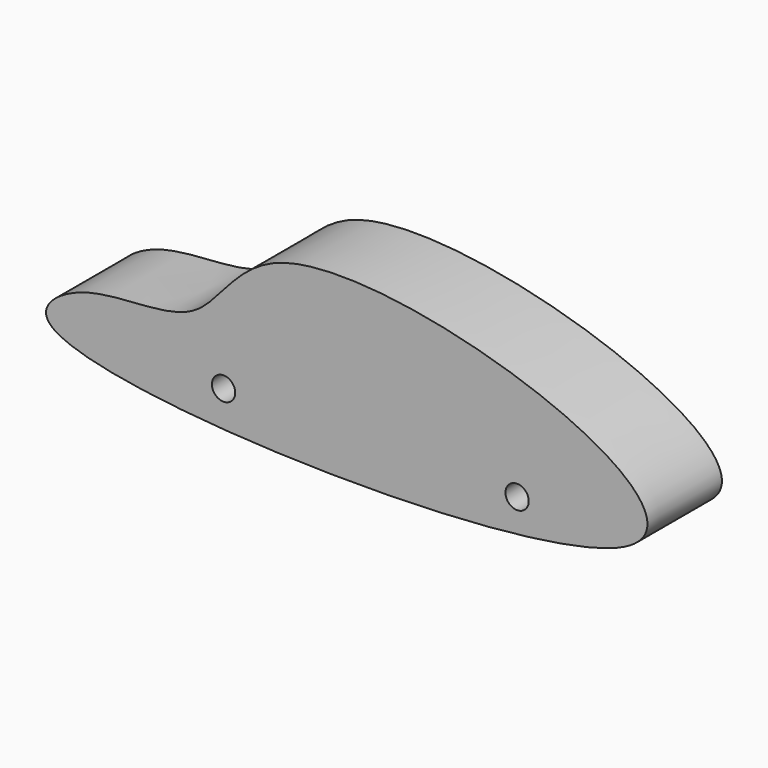
from build123d import *

# Parameters (mm, degrees)
F1_DEPTH = 25.4
F3_D     = 6.35
F5_D     = 6.35


with BuildPart() as f1:
    # F0 (on Front) → F1 (new body)
    with BuildSketch(Plane.XZ):
        with BuildLine():
            add(Edge.make_bspline(
                [(-63.4054690599, 0), (-67.0153087366, 3.7603659775), (-52.8982096248, 15.2401981404), (-20.1261925337, 9.3260561649), (-7.1498234265, 50.5734617473), (97.6177356482, 23.113703356), (106.1427610534, -16.767778573), (-51.1728995999, -12.7426540054), (-63.4054690599, 0)],
                knots=[0, 0, 0, 0, 0.0897125704, 0.2236195313, 0.3597775012, 0.5971612467, 0.695993355, 1, 1, 1, 1], degree=3))
        make_face()
    extrude(amount=F1_DEPTH)

    # F3 (through all)
    with Locations(Plane(origin=(0, 0, 0), x_dir=(1, 0, 0), z_dir=(0, 1, 0))):
        with Locations((63.9329664605, 0)):
            Hole(F3_D / 2)

    # F5 (through all)
    with Locations(Plane(origin=(0, 0, 0), x_dir=(1, 0, 0), z_dir=(0, 1, 0))):
        with Locations((-16.1196355041, 0)):
            Hole(F5_D / 2)


solid = f1.part
